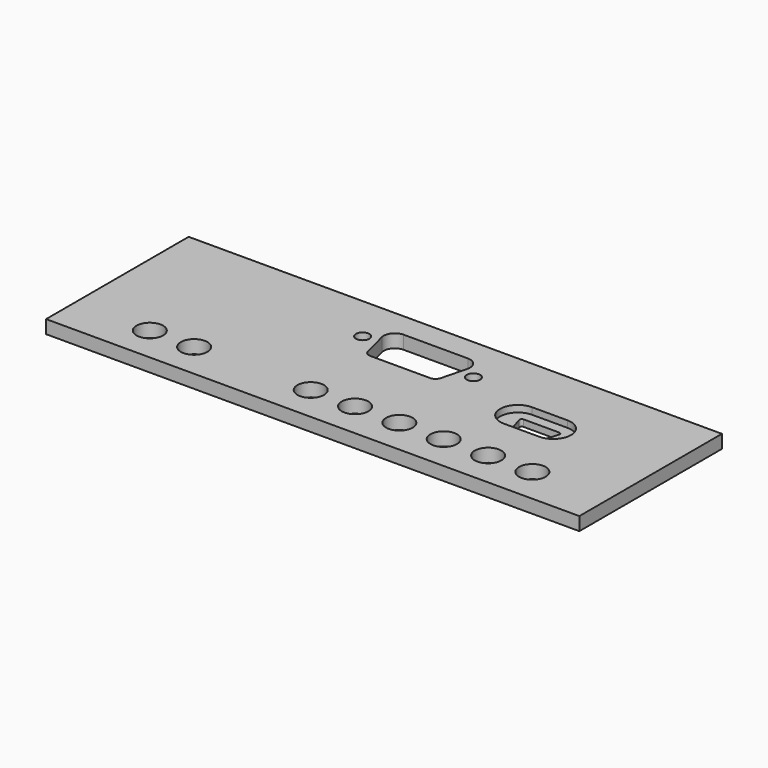
from build123d import *

# Parameters (mm, degrees)
SKETCH_W     = 120.3
SKETCH_H     = 40.2
SKETCH_R     = 1.5
SKETCH_R_2   = 3
PAD_DEPTH    = 3
POCKET_DEPTH = 1.5


with BuildPart() as part:
    # Sketch → Pad (new body)
    with BuildSketch(Plane.XY):
        Rectangle(SKETCH_W, SKETCH_H)
        with Locations((-12.5, 9.6)):
            Circle(SKETCH_R, mode=Mode.SUBTRACT)
        with Locations((12.5, 9.6)):
            Circle(SKETCH_R, mode=Mode.SUBTRACT)
        with Locations((43.15, -12.1)):
            Circle(SKETCH_R_2, mode=Mode.SUBTRACT)
        with Locations((33.15, -12.1)):
            Circle(SKETCH_R_2, mode=Mode.SUBTRACT)
        with Locations((23.15, -12.1)):
            Circle(SKETCH_R_2, mode=Mode.SUBTRACT)
        with Locations((13.15, -12.1)):
            Circle(SKETCH_R_2, mode=Mode.SUBTRACT)
        with Locations((3.15, -12.1)):
            Circle(SKETCH_R_2, mode=Mode.SUBTRACT)
        with Locations((-6.85, -12.1)):
            Circle(SKETCH_R_2, mode=Mode.SUBTRACT)
        with Locations((-33.15, -12.1)):
            Circle(SKETCH_R_2, mode=Mode.SUBTRACT)
        with Locations((-43.15, -12.1)):
            Circle(SKETCH_R_2, mode=Mode.SUBTRACT)
        with BuildLine():
            Line((28.4, 1.325), (34.9, 1.325))
            ThreePointArc((34.9, 1.325), (35.196827, 1.42264), (35.377726, 1.677426))
            Line((35.377726, 1.677426), (36.15, 4.177426))
            ThreePointArc((36.15, 4.177426), (36.074634, 4.621827), (35.672274, 4.825))
            Line((35.672274, 4.825), (27.627726, 4.825))
            ThreePointArc((27.627726, 4.825), (27.225366, 4.621827), (27.15, 4.177426))
            Line((27.15, 4.177426), (27.922274, 1.677426))
            ThreePointArc((27.922274, 1.677426), (28.103173, 1.42264), (28.4, 1.325))
        make_face(mode=Mode.SUBTRACT)
        with BuildLine():
            Line((-7.25, 14.6), (7.25, 14.6))
            ThreePointArc((9.672278, 11.481477), (9.224374, 13.633573), (7.25, 14.6))
            Line((8.203367, 5.728886), (9.672278, 11.481477))
            ThreePointArc((6.75, 4.6), (7.670144, 4.915375), (8.203367, 5.728886))
            Line((6.75, 4.6), (-6.75, 4.6))
            ThreePointArc((-8.203367, 5.728886), (-7.670144, 4.915375), (-6.75, 4.6))
            Line((-8.203367, 5.728886), (-9.672278, 11.481477))
            ThreePointArc((-7.25, 14.6), (-9.224374, 13.633573), (-9.672278, 11.481477))
        make_face(mode=Mode.SUBTRACT)
    extrude(amount=PAD_DEPTH)

    # Sketch001 (on Face32 of Pad) → Pocket (cut)
    with BuildSketch(Plane.XY.offset(3)):
        with BuildLine():
            ThreePointArc((27.7, 7.13), (23.7, 3.13), (27.7, -0.87))
            Line((27.7, -0.87), (35.7, -0.87))
            ThreePointArc((35.7, -0.87), (39.7, 3.13), (35.7, 7.13))
            Line((35.7, 7.13), (27.7, 7.13))
        make_face()
    extrude(amount=-POCKET_DEPTH, mode=Mode.SUBTRACT)


solid = part.part
